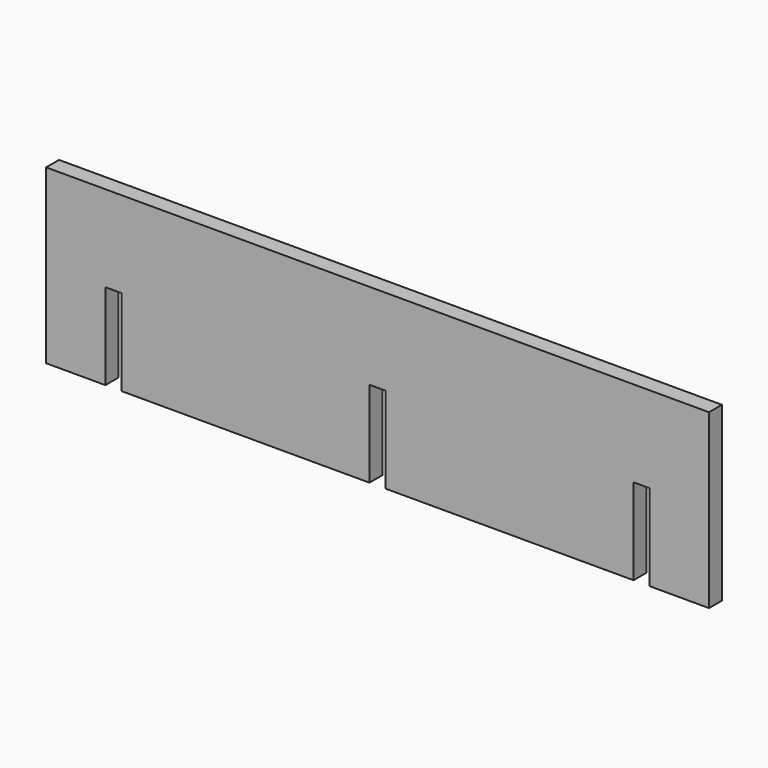
from build123d import *

# Parameters (mm, degrees)
F1_DEPTH = 9.525


with BuildPart() as f1:
    # F0 (on Front) → F1 (new body)
    with BuildSketch(Plane.XZ):
        Polygon((-195.2625, 50.8), (-195.2625, -50.8), (-160.3375, -50.8), (-160.3375, 0), (-150.8125, 0), (-150.8125, -50.8), (-4.7625, -50.8), (-4.7625, 0), (2.602418, 0), (4.7625, 0), (4.7625, -50.8), (150.8125, -50.8), (150.8125, 0), (160.3375, 0), (160.3375, -50.8), (195.2625, -50.8), (195.2625, 50.8), align=None)
    extrude(amount=F1_DEPTH)


solid = f1.part
